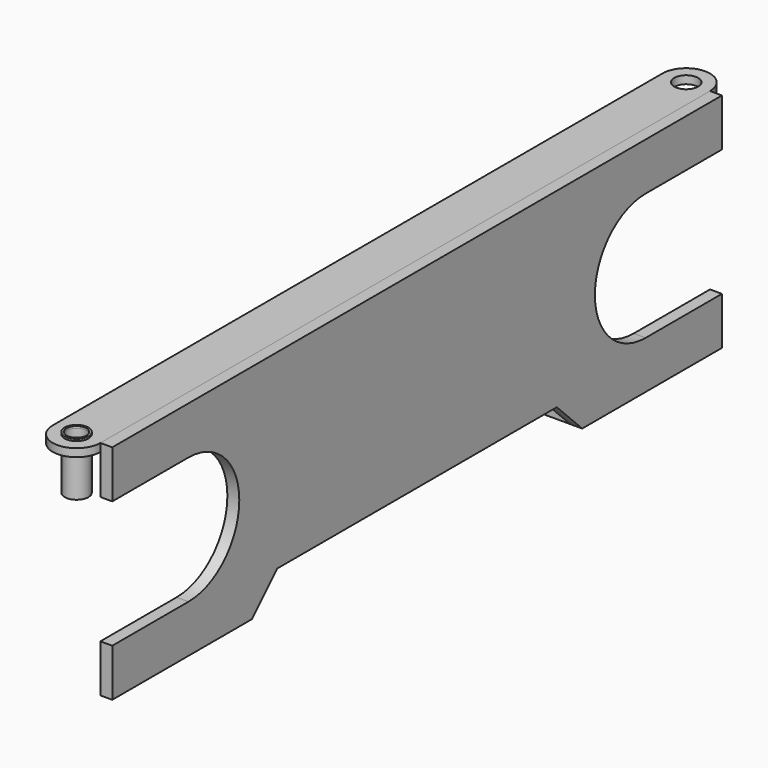
from build123d import *

# Parameters (mm, degrees)
F1_DEPTH      = 19.05
F2_R          = 19.05
F3_DEPTH      = 12.7
F4_R          = 19.05
F5_DEPTH      = 12.7
F6_R          = 19.05
F6_R_2        = 15.875
F7_DEPTH      = 3.175
F7_DEPTH_BACK = 82.55


with BuildPart() as f1:
    # F0 (on Right) → F1 (new body)
    with BuildSketch(Plane.YZ):
        with BuildLine():
            Line((609.6, 177.8), (-609.6, 177.8))
            Line((-609.6, 177.8), (-609.6, 101.6))
            Line((-609.6, 101.6), (-457.2, 101.6))
            ThreePointArc((-457.2, 101.6), (-355.6, 0), (-457.2, -101.6))
            Line((-457.2, -101.6), (-609.6, -101.6))
            Line((-609.6, -101.6), (-609.6, -177.8))
            Line((-609.6, -177.8), (-330.2, -177.8))
            Line((-330.2, -177.8), (-279.4, -127))
            Line((-279.4, -127), (279.4, -127))
            Line((279.4, -127), (330.2, -177.8))
            Line((330.2, -177.8), (609.6, -177.8))
            Line((609.6, -177.8), (609.6, -101.6))
            Line((609.6, -101.6), (457.2, -101.6))
            ThreePointArc((457.2, -101.6), (355.6, 0), (457.2, 101.6))
            Line((457.2, 101.6), (609.6, 101.6))
            Line((609.6, 101.6), (609.6, 177.8))
        make_face()
    extrude(amount=F1_DEPTH)


with BuildPart() as f3:
    # F2 (on face) → F3 (new body)
    with BuildSketch(Plane.XY.offset(177.8)):
        with BuildLine():
            ThreePointArc((-76.2, -609.6), (-38.1, -647.7), (0, -609.6))
            Line((0, -609.6), (0, 609.6))
            ThreePointArc((0, 609.6), (-38.1, 647.7), (-76.2, 609.6))
            Line((-76.2, 609.6), (-76.2, -609.6))
        make_face()
        with Locations((-38.1, -609.6)):
            Circle(F2_R, mode=Mode.SUBTRACT)
        with Locations((-38.1, 609.6)):
            Circle(F2_R, mode=Mode.SUBTRACT)
    extrude(amount=-F3_DEPTH)


with BuildPart() as f5:
    # F4 (on face) → F5 (new body)
    with BuildSketch(Plane(origin=(0, 0, -177.8), x_dir=(1, 0, 0), z_dir=(0, 0, -1))):
        with BuildLine():
            Line((0, -609.6), (0, -330.2))
            Line((0, -330.2), (-76.2, -330.2))
            Line((-76.2, -330.2), (-76.2, -609.6))
            ThreePointArc((-76.2, -609.6), (-38.1, -647.7), (0, -609.6))
        make_face()
        with Locations((-38.1, -609.6)):
            Circle(F4_R, mode=Mode.SUBTRACT)
    extrude(amount=-F5_DEPTH)


with BuildPart() as f7:
    # F6 (on face) → F7 (new body, two sides)
    with BuildSketch(Plane.XY.offset(177.8)) as f7_sk:
        with Locations((-38.1, -609.6)):
            Circle(F6_R)
        with Locations((-38.1, -609.6)):
            Circle(F6_R_2, mode=Mode.SUBTRACT)
    extrude(amount=F7_DEPTH)
    extrude(f7_sk.sketch, amount=-F7_DEPTH_BACK)


solid = Compound([f1.part, f3.part, f5.part, f7.part])
